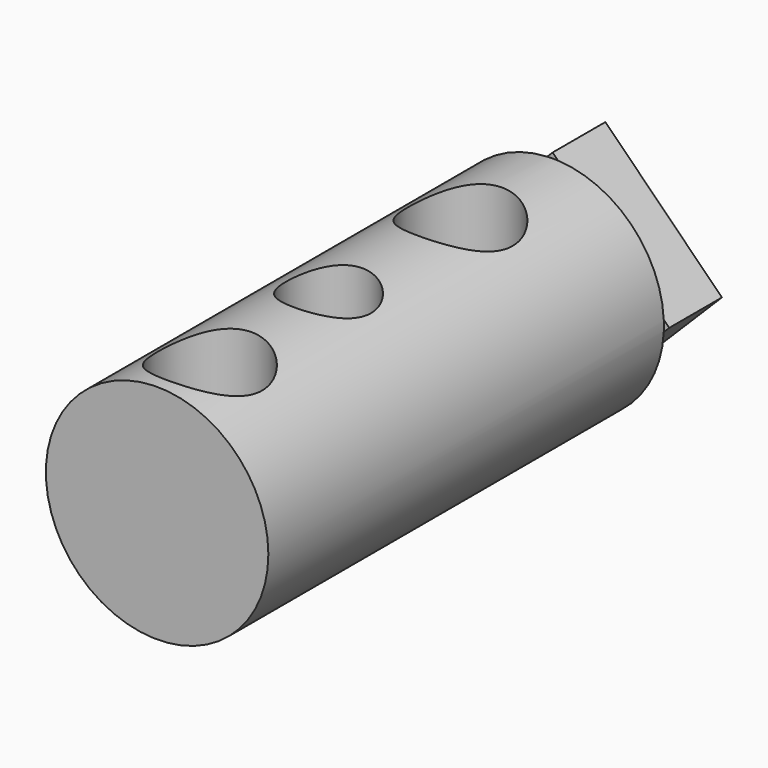
from build123d import *

# Parameters (mm, degrees)
F0_R          = 6.75
F1_DEPTH      = 13
F1_DEPTH_BACK = 17
F2_R          = 3.175
F2_R_2        = 2.5796875
F3_DEPTH      = 6.751
F3_DEPTH_BACK = 6.751
F5_DEPTH      = 4


with BuildPart() as f1:
    # F0 (on Front) → F1 (new body, two sides)
    with BuildSketch(Plane.XZ) as f1_sk:
        Circle(F0_R)
    extrude(amount=-F1_DEPTH)
    extrude(f1_sk.sketch, amount=F1_DEPTH_BACK)

    # F2 (on Top) → F3 (cut, two sides)
    with BuildSketch(Plane.XY) as f3_sk:
        with Locations((0, 6)):
            Circle(F2_R)
        with Locations((0, -4)):
            Circle(F2_R_2)
        with Locations((0, -13)):
            Circle(F2_R)
    extrude(amount=-F3_DEPTH, mode=Mode.SUBTRACT)
    extrude(f3_sk.sketch, amount=F3_DEPTH_BACK, mode=Mode.SUBTRACT)

    # F4 (on face) → F5 (join)
    with BuildSketch(Plane(origin=(0, 13, 0), x_dir=(-1, 0, 0), z_dir=(0, 1, 0))):
        Polygon((-7.0710678119, 0), (0, -7.0710678119), (7.0710678119, 0), (0, 7.0710678119), align=None)
    extrude(amount=F5_DEPTH)


solid = f1.part
